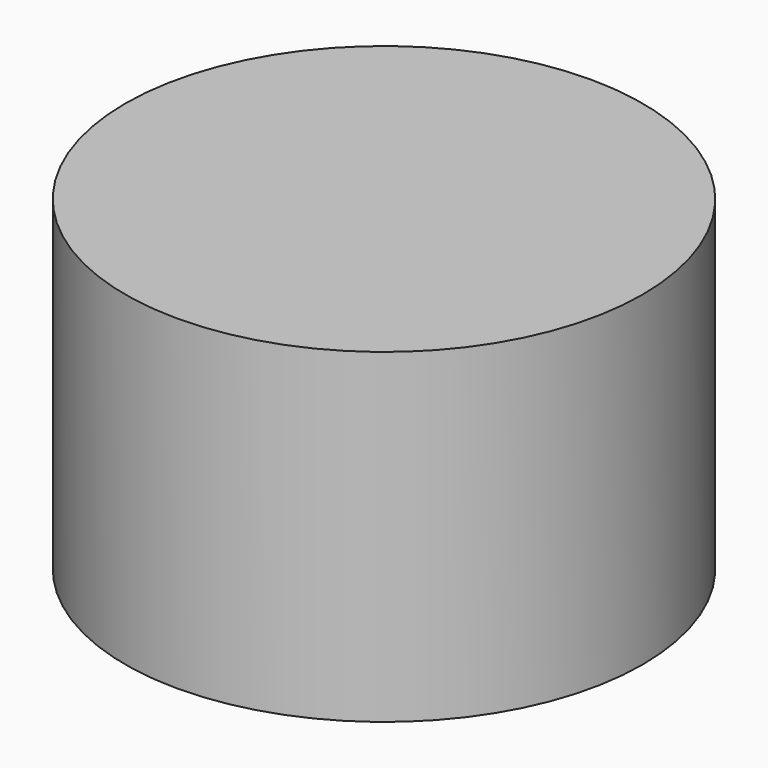
from build123d import *

# Parameters (mm, degrees)
CYLINDER_R     = 11.9126
CYLINDER_DEPTH = 15


with BuildPart() as part:
    # Cylinder → Cylinder (new body)
    with BuildSketch(Plane.XY.offset(-2.5)):
        Circle(CYLINDER_R)
    extrude(amount=CYLINDER_DEPTH)


solid = part.part
